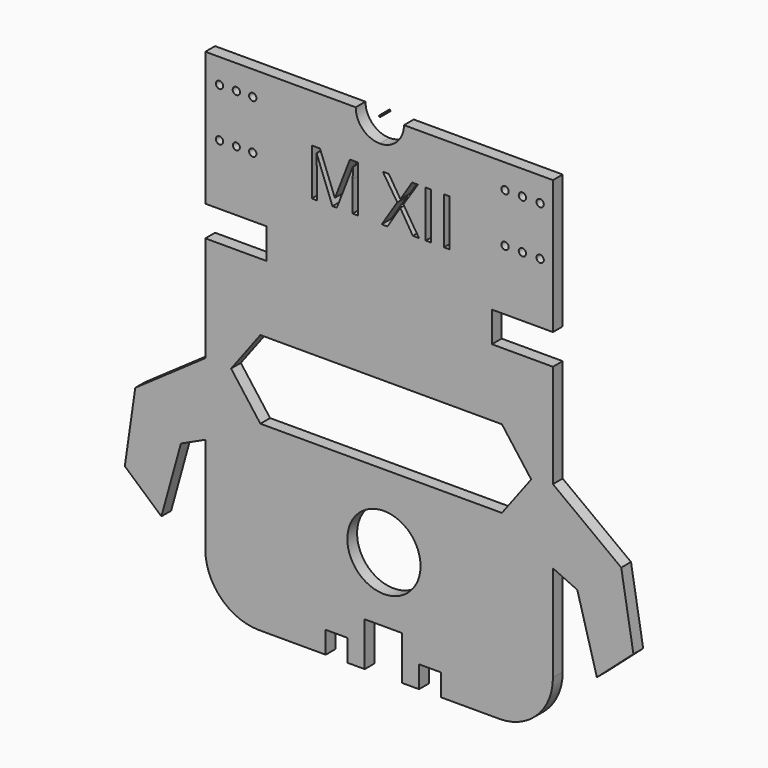
from build123d import *

# Parameters (mm, degrees)
F0_R     = 15
F0_R_2   = 1.5
F0_R_3   = 1.441072342
F0_W     = 2.2267277818
F0_H     = 19.15992323
F1_DEPTH = 5
F2_DEPTH = 5


with BuildPart() as f1:
    # F0 (on Front) → F1 (new body)
    with BuildSketch(Plane.XZ):
        with BuildLine():
            Line((-57.3951144738, 78.4210244134), (-119.0419751526, 78.4210244134))
            Line((-119.0419751526, 78.4210244134), (-119.0419751526, 23.5764375642))
            Line((-119.0419751526, 23.5764375642), (-94.0419751526, 23.5764375642))
            Line((-94.0419751526, 23.5764375642), (-94.0419751526, 11.0764375642))
            Line((-94.0419751526, 11.0764375642), (-119.0419751526, 11.0764375642))
            Line((-119.0419751526, 11.0764375642), (-119.0419751526, -32.1499912984))
            Line((-119.0419751526, -32.1499912984), (-119.0419751526, -61.6089515388))
            Line((-119.0419751526, -61.6089515388), (-119.0419751526, -101.1258891719))
            ThreePointArc((-119.0419751526, -101.1258891719), (-112.5983243387, -116.682238358), (-97.0419751526, -123.1258891719))
            Line((-97.0419751526, -123.1258891719), (-69.6967765689, -123.1258891719))
            Line((-69.6967765689, -123.1258891719), (-69.6967765689, -114.1258891719))
            Line((-69.6967765689, -114.1258891719), (-60.6967765689, -114.1258891719))
            Line((-60.6967765689, -114.1258891719), (-60.6967765689, -123.1258891719))
            Line((-60.6967765689, -123.1258891719), (-53.6967765689, -123.1258891719))
            Line((-53.6967765689, -123.1258891719), (-53.6967765689, -105.1258891719))
            Line((-53.6967765689, -105.1258891719), (-38.4397715134, -105.1258891719))
            Line((-38.4397715134, -105.1258891719), (-38.4397715134, -123.1258891719))
            Line((-38.4397715134, -123.1258891719), (-31.4397715134, -123.1258891719))
            Line((-31.4397715134, -123.1258891719), (-31.4397715134, -114.1258891719))
            Line((-31.4397715134, -114.1258891719), (-22.4397715134, -114.1258891719))
            Line((-22.4397715134, -114.1258891719), (-22.4397715134, -123.1258891719))
            Line((-22.4397715134, -123.1258891719), (1.4399430895, -123.1258891719))
            ThreePointArc((1.4399430895, -123.1258891719), (16.9962922756, -116.682238358), (23.4399430895, -101.1258891719))
            Line((23.4399430895, -101.1258891719), (23.4399430895, -61.6089515388))
            Line((23.4399430895, -61.6089515388), (23.4399430895, -31.2823932228))
            Line((23.4399430895, -31.2823932228), (23.4399430895, 11.0764375642))
            Line((23.4399430895, 11.0764375642), (-1.5600569105, 11.0764375642))
            Line((-1.5600569105, 11.0764375642), (-1.5600569105, 23.5764375642))
            Line((-1.5600569105, 23.5764375642), (23.4399430895, 23.5764375642))
            Line((23.4399430895, 23.5764375642), (23.4399430895, 68.4210244134))
            Line((23.4399430895, 68.4210244134), (23.4399430895, 78.4210244134))
            Line((23.4399430895, 78.4210244134), (-37.6161391418, 78.4210244134))
            ThreePointArc((-37.6161391418, 78.4210244134), (-40.5127030167, 71.4281006223), (-47.5056268078, 68.5315367474))
            ThreePointArc((-47.5056268078, 68.5315367474), (-54.4985505989, 71.4281006223), (-57.3951144738, 78.4210244134))
        make_face()
        with Locations((-45.8287447691, -78.4661704674)):
            Circle(F0_R, mode=Mode.SUBTRACT)
        Polygon((-108.4734608098, -32.4661704674), (-96.4734608098, -16.4661704674), (2.5265391902, -16.4661704674), (14.5265391902, -32.4661704674), (2.5265391902, -48.4661704674), (-96.4734608098, -48.4661704674), align=None, mode=Mode.SUBTRACT)
        with Locations((-113.1943613291, 48.3209192753)):
            Circle(F0_R_2, mode=Mode.SUBTRACT)
        with Locations((-106.3207313418, 48.3939448312)):
            Circle(F0_R_3, mode=Mode.SUBTRACT)
        with Locations((-113.1943613291, 68.3518946171)):
            Circle(F0_R_2, mode=Mode.SUBTRACT)
        with Locations((-106.3207313418, 68.3939448312)):
            Circle(F0_R_2, mode=Mode.SUBTRACT)
        with Locations((-99.5902121067, 48.3325049281)):
            Circle(F0_R_2, mode=Mode.SUBTRACT)
        with BuildLine():
            Line((-65.1332163252, 39.6400615573), (-66.9280176258, 39.6400615573))
            Line((-66.9280176258, 39.6400615573), (-73.427882149, 56.6235785373))
            Line((-73.427882149, 56.6235785373), (-73.5327186736, 56.6235785373))
            add(Edge.make_bspline(
                [(-73.5327186736, 56.6235785373), (-73.3482063903, 54.6065238046), (-73.3482063903, 51.826259173)],
                knots=[0, 0, 0, 1, 1, 1], degree=2))
            Line((-73.3482063903, 51.826259173), (-73.3482063903, 39.6400615573))
            Line((-73.3482063903, 39.6400615573), (-75.4071957328, 39.6400615573))
            Line((-75.4071957328, 39.6400615573), (-75.4071957328, 58.7999847873))
            Line((-75.4071957328, 58.7999847873), (-72.0524269467, 58.7999847873))
            Line((-72.0524269467, 58.7999847873), (-65.9844889047, 42.9948303435))
            Line((-65.9844889047, 42.9948303435), (-65.8796523801, 42.9948303435))
            Line((-65.8796523801, 42.9948303435), (-59.7613928063, 58.7999847873))
            Line((-59.7613928063, 58.7999847873), (-56.4317847861, 58.7999847873))
            Line((-56.4317847861, 58.7999847873), (-56.4317847861, 39.6400615573))
            Line((-56.4317847861, 39.6400615573), (-58.6585125679, 39.6400615573))
            Line((-58.6585125679, 39.6400615573), (-58.6585125679, 51.9856106904))
            add(Edge.make_bspline(
                [(-58.6585125679, 51.9856106904), (-58.6585125679, 54.1075019476), (-58.4740002847, 56.5984177714)],
                knots=[0, 0, 0, 1, 1, 1], degree=2))
            Line((-58.4740002847, 56.5984177714), (-58.5788368092, 56.5984177714))
            Line((-58.5788368092, 56.5984177714), (-65.1332163252, 39.6400615573))
        make_face(mode=Mode.SUBTRACT)
        with Locations((-99.5902121067, 68.4210244134)):
            Circle(F0_R_2, mode=Mode.SUBTRACT)
        Polygon((-37.8463657107, 49.7295286817), (-31.4513377121, 39.6400615573), (-33.9799946847, 39.6400615573), (-39.1295647714, 48.0647246716), (-44.3713909998, 39.6400615573), (-46.7323095331, 39.6400615573), (-40.3624423003, 49.654046384), (-46.3003830519, 58.7999847873), (-43.834627994, 58.7999847873), (-39.0792432396, 51.2098204086), (-34.2819238754, 58.7999847873), (-31.9126184202, 58.7999847873), align=None, mode=Mode.SUBTRACT)
        with Locations((-27.5996437995, 49.2200231723)):
            Rectangle(F0_W, F0_H, mode=Mode.SUBTRACT)
        with Locations((-20.1185094063, 49.2200231723)):
            Rectangle(F0_W, F0_H, mode=Mode.SUBTRACT)
        with Locations((3.8105277345, 48.3325049281)):
            Circle(F0_R_2, mode=Mode.SUBTRACT)
        with Locations((3.8105277345, 68.4210244134)):
            Circle(F0_R_2, mode=Mode.SUBTRACT)
        with Locations((10.9275467694, 48.3325049281)):
            Circle(F0_R_2, mode=Mode.SUBTRACT)
        with Locations((18.1994624436, 48.3325049281)):
            Circle(F0_R_2, mode=Mode.SUBTRACT)
        with Locations((10.9275467694, 68.4210244134)):
            Circle(F0_R_2, mode=Mode.SUBTRACT)
        with Locations((18.1994624436, 68.4210244134)):
            Circle(F0_R_2, mode=Mode.SUBTRACT)
        Polygon((-119.0419751526, -61.6089515388), (-119.0419751526, -32.1499912984), (-147.7496829089, -52.1716674367), (-152.0327921053, -81.8643428906), (-137.0507371719, -95.1134194612), (-129.0419751526, -66.2021806272), align=None)
        Polygon((51.4399430895, -52.2823932228), (23.4399430895, -31.2823932228), (23.4399430895, -61.6089515388), (33.4399430895, -66.2021806272), (41.4487051088, -95.1134194612), (56.4307600421, -81.8643428906), align=None)
    extrude(amount=F1_DEPTH)

    # F0 (on Front) → F2 (join)
    with BuildSketch(Plane.XZ):
        with BuildLine():
            Line((-57.3951144738, 78.4210244134), (-119.0419751526, 78.4210244134))
            Line((-119.0419751526, 78.4210244134), (-119.0419751526, 23.5764375642))
            Line((-119.0419751526, 23.5764375642), (-94.0419751526, 23.5764375642))
            Line((-94.0419751526, 23.5764375642), (-94.0419751526, 11.0764375642))
            Line((-94.0419751526, 11.0764375642), (-119.0419751526, 11.0764375642))
            Line((-119.0419751526, 11.0764375642), (-119.0419751526, -32.1499912984))
            Line((-119.0419751526, -32.1499912984), (-119.0419751526, -61.6089515388))
            Line((-119.0419751526, -61.6089515388), (-119.0419751526, -101.1258891719))
            ThreePointArc((-119.0419751526, -101.1258891719), (-112.5983243387, -116.682238358), (-97.0419751526, -123.1258891719))
            Line((-97.0419751526, -123.1258891719), (-69.6967765689, -123.1258891719))
            Line((-69.6967765689, -123.1258891719), (-69.6967765689, -114.1258891719))
            Line((-69.6967765689, -114.1258891719), (-60.6967765689, -114.1258891719))
            Line((-60.6967765689, -114.1258891719), (-60.6967765689, -123.1258891719))
            Line((-60.6967765689, -123.1258891719), (-53.6967765689, -123.1258891719))
            Line((-53.6967765689, -123.1258891719), (-53.6967765689, -105.1258891719))
            Line((-53.6967765689, -105.1258891719), (-38.4397715134, -105.1258891719))
            Line((-38.4397715134, -105.1258891719), (-38.4397715134, -123.1258891719))
            Line((-38.4397715134, -123.1258891719), (-31.4397715134, -123.1258891719))
            Line((-31.4397715134, -123.1258891719), (-31.4397715134, -114.1258891719))
            Line((-31.4397715134, -114.1258891719), (-22.4397715134, -114.1258891719))
            Line((-22.4397715134, -114.1258891719), (-22.4397715134, -123.1258891719))
            Line((-22.4397715134, -123.1258891719), (1.4399430895, -123.1258891719))
            ThreePointArc((1.4399430895, -123.1258891719), (16.9962922756, -116.682238358), (23.4399430895, -101.1258891719))
            Line((23.4399430895, -101.1258891719), (23.4399430895, -61.6089515388))
            Line((23.4399430895, -61.6089515388), (23.4399430895, -31.2823932228))
            Line((23.4399430895, -31.2823932228), (23.4399430895, 11.0764375642))
            Line((23.4399430895, 11.0764375642), (-1.5600569105, 11.0764375642))
            Line((-1.5600569105, 11.0764375642), (-1.5600569105, 23.5764375642))
            Line((-1.5600569105, 23.5764375642), (23.4399430895, 23.5764375642))
            Line((23.4399430895, 23.5764375642), (23.4399430895, 68.4210244134))
            Line((23.4399430895, 68.4210244134), (23.4399430895, 78.4210244134))
            Line((23.4399430895, 78.4210244134), (-37.6161391418, 78.4210244134))
            ThreePointArc((-37.6161391418, 78.4210244134), (-40.5127030167, 71.4281006223), (-47.5056268078, 68.5315367474))
            ThreePointArc((-47.5056268078, 68.5315367474), (-54.4985505989, 71.4281006223), (-57.3951144738, 78.4210244134))
        make_face()
        with Locations((-45.8287447691, -78.4661704674)):
            Circle(F0_R, mode=Mode.SUBTRACT)
        Polygon((-108.4734608098, -32.4661704674), (-96.4734608098, -16.4661704674), (2.5265391902, -16.4661704674), (14.5265391902, -32.4661704674), (2.5265391902, -48.4661704674), (-96.4734608098, -48.4661704674), align=None, mode=Mode.SUBTRACT)
        with Locations((-113.1943613291, 48.3209192753)):
            Circle(F0_R_2, mode=Mode.SUBTRACT)
        with Locations((-106.3207313418, 48.3939448312)):
            Circle(F0_R_3, mode=Mode.SUBTRACT)
        with Locations((-113.1943613291, 68.3518946171)):
            Circle(F0_R_2, mode=Mode.SUBTRACT)
        with Locations((-106.3207313418, 68.3939448312)):
            Circle(F0_R_2, mode=Mode.SUBTRACT)
        with Locations((-99.5902121067, 48.3325049281)):
            Circle(F0_R_2, mode=Mode.SUBTRACT)
        with BuildLine():
            Line((-65.1332163252, 39.6400615573), (-66.9280176258, 39.6400615573))
            Line((-66.9280176258, 39.6400615573), (-73.427882149, 56.6235785373))
            Line((-73.427882149, 56.6235785373), (-73.5327186736, 56.6235785373))
            add(Edge.make_bspline(
                [(-73.5327186736, 56.6235785373), (-73.3482063903, 54.6065238046), (-73.3482063903, 51.826259173)],
                knots=[0, 0, 0, 1, 1, 1], degree=2))
            Line((-73.3482063903, 51.826259173), (-73.3482063903, 39.6400615573))
            Line((-73.3482063903, 39.6400615573), (-75.4071957328, 39.6400615573))
            Line((-75.4071957328, 39.6400615573), (-75.4071957328, 58.7999847873))
            Line((-75.4071957328, 58.7999847873), (-72.0524269467, 58.7999847873))
            Line((-72.0524269467, 58.7999847873), (-65.9844889047, 42.9948303435))
            Line((-65.9844889047, 42.9948303435), (-65.8796523801, 42.9948303435))
            Line((-65.8796523801, 42.9948303435), (-59.7613928063, 58.7999847873))
            Line((-59.7613928063, 58.7999847873), (-56.4317847861, 58.7999847873))
            Line((-56.4317847861, 58.7999847873), (-56.4317847861, 39.6400615573))
            Line((-56.4317847861, 39.6400615573), (-58.6585125679, 39.6400615573))
            Line((-58.6585125679, 39.6400615573), (-58.6585125679, 51.9856106904))
            add(Edge.make_bspline(
                [(-58.6585125679, 51.9856106904), (-58.6585125679, 54.1075019476), (-58.4740002847, 56.5984177714)],
                knots=[0, 0, 0, 1, 1, 1], degree=2))
            Line((-58.4740002847, 56.5984177714), (-58.5788368092, 56.5984177714))
            Line((-58.5788368092, 56.5984177714), (-65.1332163252, 39.6400615573))
        make_face(mode=Mode.SUBTRACT)
        with Locations((-99.5902121067, 68.4210244134)):
            Circle(F0_R_2, mode=Mode.SUBTRACT)
        Polygon((-37.8463657107, 49.7295286817), (-31.4513377121, 39.6400615573), (-33.9799946847, 39.6400615573), (-39.1295647714, 48.0647246716), (-44.3713909998, 39.6400615573), (-46.7323095331, 39.6400615573), (-40.3624423003, 49.654046384), (-46.3003830519, 58.7999847873), (-43.834627994, 58.7999847873), (-39.0792432396, 51.2098204086), (-34.2819238754, 58.7999847873), (-31.9126184202, 58.7999847873), align=None, mode=Mode.SUBTRACT)
        with Locations((-27.5996437995, 49.2200231723)):
            Rectangle(F0_W, F0_H, mode=Mode.SUBTRACT)
        with Locations((-20.1185094063, 49.2200231723)):
            Rectangle(F0_W, F0_H, mode=Mode.SUBTRACT)
        with Locations((3.8105277345, 48.3325049281)):
            Circle(F0_R_2, mode=Mode.SUBTRACT)
        with Locations((3.8105277345, 68.4210244134)):
            Circle(F0_R_2, mode=Mode.SUBTRACT)
        with Locations((10.9275467694, 48.3325049281)):
            Circle(F0_R_2, mode=Mode.SUBTRACT)
        with Locations((18.1994624436, 48.3325049281)):
            Circle(F0_R_2, mode=Mode.SUBTRACT)
        with Locations((10.9275467694, 68.4210244134)):
            Circle(F0_R_2, mode=Mode.SUBTRACT)
        with Locations((18.1994624436, 68.4210244134)):
            Circle(F0_R_2, mode=Mode.SUBTRACT)
        Polygon((-119.0419751526, -61.6089515388), (-119.0419751526, -32.1499912984), (-147.7496829089, -52.1716674367), (-152.0327921053, -81.8643428906), (-137.0507371719, -95.1134194612), (-129.0419751526, -66.2021806272), align=None)
        Polygon((51.4399430895, -52.2823932228), (23.4399430895, -31.2823932228), (23.4399430895, -61.6089515388), (33.4399430895, -66.2021806272), (41.4487051088, -95.1134194612), (56.4307600421, -81.8643428906), align=None)
    extrude(amount=F2_DEPTH)


with BuildPart() as f2:
    # F0 (on Front) → F2, piece 2 (new body)
    with BuildSketch(Plane.XZ):
        with BuildLine():
            ThreePointArc((-47.184005962, 78.4210244134), (-47.2782065268, 78.6484446944), (-47.5056268078, 78.7426452592))
            Line((-47.5056268078, 78.7426452592), (-47.5056268078, 78.4210244134))
            Line((-47.5056268078, 78.4210244134), (-47.184005962, 78.4210244134))
        make_face()
        with BuildLine():
            Line((-47.5056268078, 78.4210244134), (-47.5056268078, 78.7426452592))
            ThreePointArc((-47.5056268078, 78.7426452592), (-47.7330470888, 78.6484446944), (-47.8272476536, 78.4210244134))
            Line((-47.8272476536, 78.4210244134), (-47.5056268078, 78.4210244134))
        make_face()
        with BuildLine():
            Line((-47.184005962, 78.4210244134), (-47.5056268078, 78.4210244134))
            Line((-47.5056268078, 78.4210244134), (-47.5056268078, 78.0994035676))
            ThreePointArc((-47.5056268078, 78.0994035676), (-47.2782065268, 78.1936041324), (-47.184005962, 78.4210244134))
        make_face()
        with BuildLine():
            Line((-47.5056268078, 78.0994035676), (-47.5056268078, 78.4210244134))
            Line((-47.5056268078, 78.4210244134), (-47.8272476536, 78.4210244134))
            ThreePointArc((-47.8272476536, 78.4210244134), (-47.7330470888, 78.1936041324), (-47.5056268078, 78.0994035676))
        make_face()
    extrude(amount=F2_DEPTH)


solid = Compound([f1.part, f2.part])
